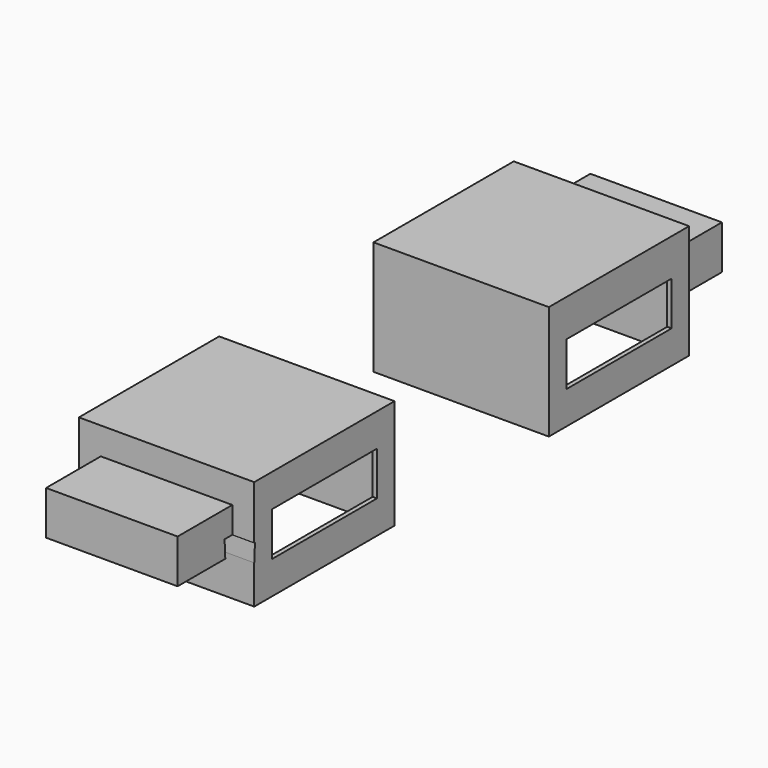
from build123d import *

# Parameters (mm, degrees)
F0_W      = 40
F0_H      = 40
F1_DEPTH  = 25
F2_T      = -1
F3_W      = 30
F3_H      = 10
F5_DEPTH  = 15.6
F4_W      = 30
F4_H      = 10
F6_DEPTH  = 25
F9_DEPTH  = 1
F10_W     = 47.6930700243
F10_H     = 2
F11_DEPTH = 4
F11_TAPER = -3
F12_W     = 47.6930700243
F12_H     = 2
F13_DEPTH = 4
F13_TAPER = -3


with BuildPart() as f1:
    # F0 (on Top) → F1 (new body)
    with BuildSketch(Plane.XY):
        Rectangle(F0_W, F0_H)
    extrude(amount=F1_DEPTH)

    # F2
    f2_openings = [f1.faces().sort_by_distance(p)[0] for p in [
        (0, 0, 0),
    ]]
    offset(amount=F2_T, openings=f2_openings)

    # F3 (on face) → F5 (join)
    with BuildSketch(Plane.XZ.offset(20)):
        with Locations((0, 13.7962974404)):
            Rectangle(F3_W, F3_H)
    extrude(amount=F5_DEPTH)

    # F4 (on face) → F6 (cut)
    with BuildSketch(Plane.YZ.offset(20)):
        with Locations((0, 12.5)):
            Rectangle(F4_W, F4_H)
    extrude(amount=-F6_DEPTH, mode=Mode.SUBTRACT)


with BuildPart() as f8_1:
    # F8: instance of F1
    add(f1.part.mirror(Plane.XZ.offset(-42)))

    # F9 (add): a face of the model
    f9_faces = [f8_1.faces().sort_by_distance(p)[0] for p in [
        (0, 84, 25),
    ]]
    extrude(f9_faces, amount=F9_DEPTH)

    # F12 (on face) → F13 (cut)
    with BuildSketch(Plane(origin=(0, 0, 8.7962974404), x_dir=(1, 0, 0), z_dir=(0, 0, -1))):
        with Locations((-6.5942648798, -105)):
            Rectangle(F12_W, F12_H)
    extrude(amount=-F13_DEPTH, taper=F13_TAPER, mode=Mode.SUBTRACT)


with BuildPart() as f1_1:
    add(f1.part)

    # F10 (on face) → F11 (cut)
    with BuildSketch(Plane(origin=(0, 0, 8.7962974404), x_dir=(1, 0, 0), z_dir=(0, 0, -1))):
        with Locations((0, 21)):
            Rectangle(F10_W, F10_H)
    extrude(amount=-F11_DEPTH, taper=F11_TAPER, mode=Mode.SUBTRACT)


solid = Compound([f8_1.part, f1_1.part])
